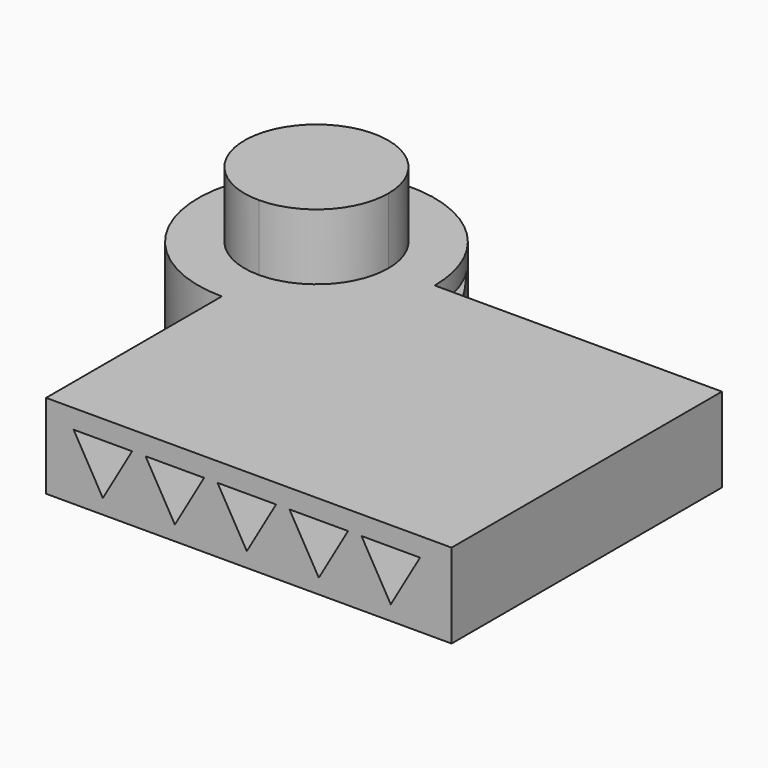
from build123d import *

# Parameters (mm, degrees)
F1_DEPTH = 25
F2_DEPTH = 44.5
F4_DEPTH = 135.001


with BuildPart() as f1:
    # F0 (on Top) → F1 (new body)
    with BuildSketch(Plane.XY):
        with BuildLine():
            ThreePointArc((-41.184, 79.512), (-93.6, 59.8), (-60, 15))
            Line((-60, 15), (-60, 28.7225588989))
            ThreePointArc((-60, 28.7225588989), (-75.0454228889, 65.0454228889), (-38.7225588989, 50))
            Line((-38.7225588989, 50), (-25, 50))
            ThreePointArc((-25, 50), (-29.3115656965, 66.8291413922), (-41.184, 79.512))
        make_face()
        with BuildLine():
            Line((-60, -50), (60, -50))
            Line((60, -50), (60, 50))
            Line((60, 50), (-25, 50))
            ThreePointArc((-25, 50), (-35.2512626585, 25.2512626585), (-60, 15))
            Line((-60, 15), (-60, -50))
        make_face()
        with BuildLine():
            Line((-60, 28.7225588989), (-60, 15))
            ThreePointArc((-60, 15), (-35.2512626585, 25.2512626585), (-25, 50))
            Line((-25, 50), (-38.7225588989, 50))
            ThreePointArc((-38.7225588989, 50), (-44.9545771111, 34.9545771111), (-60, 28.7225588989))
        make_face()
    extrude(amount=F1_DEPTH)


with BuildPart() as f2:
    # F0 (on Top) → F2 (new body, symmetric)
    with BuildSketch(Plane.XY):
        with BuildLine():
            ThreePointArc((-38.7225588989, 50), (-75.0454228889, 65.0454228889), (-60, 28.7225588989))
            Line((-60, 28.7225588989), (-60, 50))
            Line((-60, 50), (-38.7225588989, 50))
        make_face()
        with BuildLine():
            Line((-60, 50), (-60, 28.7225588989))
            ThreePointArc((-60, 28.7225588989), (-44.9545771111, 34.9545771111), (-38.7225588989, 50))
            Line((-38.7225588989, 50), (-60, 50))
        make_face()
    extrude(amount=F2_DEPTH, both=True)


with BuildPart() as f4_tool:
    # F3 (on face) → F4 (new body, through all)
    with BuildSketch(Plane.XZ.offset(50)):
        Polygon((-43.197884396, 4.3595845481), (-34.5376303581, 19.3595845481), (-51.8581384338, 19.3595845481), align=None)
        Polygon((-21.897884396, 4.3595845481), (-13.2376303581, 19.3595845481), (-30.5581384338, 19.3595845481), align=None)
        Polygon((-0.597884396, 4.3595845481), (8.0623696419, 19.3595845481), (-9.2581384338, 19.3595845481), align=None)
        Polygon((20.702115604, 4.3595845481), (29.3623696419, 19.3595845481), (12.0418615662, 19.3595845481), align=None)
        Polygon((42.002115604, 4.3595845481), (50.6623696419, 19.3595845481), (33.3418615662, 19.3595845481), align=None)
    extrude(amount=-F4_DEPTH)


with BuildPart() as f1_1:
    add(f1.part)

    # F4: cut by f4_tool
    add(f4_tool.part, mode=Mode.SUBTRACT)


with BuildPart() as f2_1:
    add(f2.part)

    # F4: cut by f4_tool
    add(f4_tool.part, mode=Mode.SUBTRACT)


solid = Compound([f1_1.part, f2_1.part])
